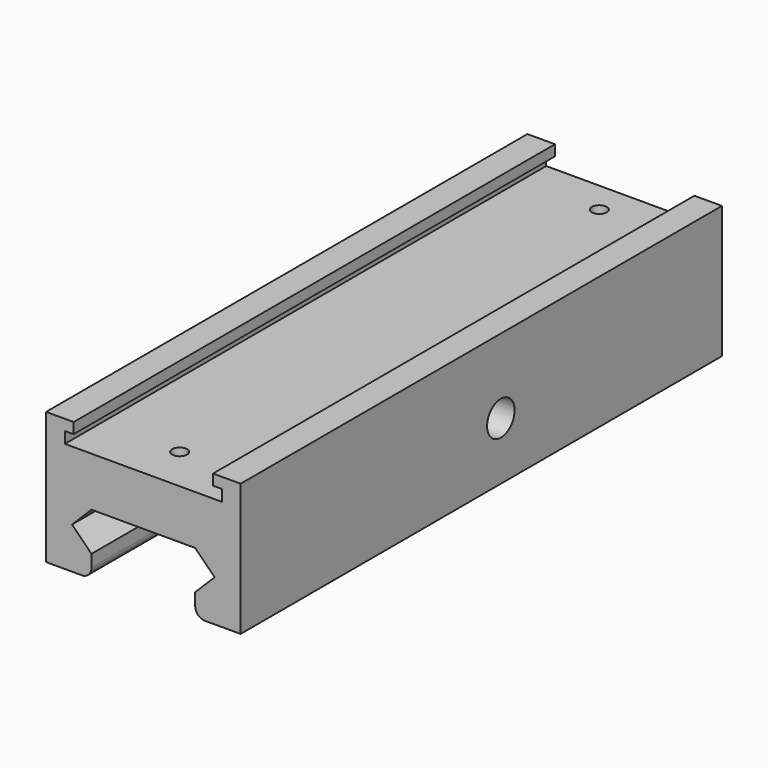
from build123d import *

# Parameters (mm, degrees)
F1_DEPTH = 92.8
F3_DEPTH = 92.8
F4_R     = 1.15
F5_DEPTH = 6.6
F6_R     = 2.65
F7_DEPTH = 30
F9_DEPTH = 2.7


with BuildPart() as f1:
    # F0 (on Front) → F1 (new body)
    with BuildSketch(Plane.XZ):
        with BuildLine():
            Line((-15, 20.4), (-15, 0))
            Line((-15, 0), (-9.5, 0))
            ThreePointArc((-9.5, 0), (-8.43934, 0.43934), (-8, 1.5))
            Line((-8, 1.5), (-8, 3.4))
            Line((-8, 3.4), (-9.5, 4.9))
            Line((-9.5, 4.9), (-11, 6.4))
            Line((-11, 6.4), (-9.5, 7.9))
            Line((-9.5, 7.9), (-8, 9.4))
            Line((-8, 9.4), (0, 9.4))
            Line((0, 9.4), (8, 9.4))
            Line((8, 9.4), (11, 6.4))
            Line((11, 6.4), (8, 3.4))
            Line((8, 3.4), (8, 1.5))
            ThreePointArc((8, 1.5), (8.43934, 0.43934), (9.5, 0))
            Line((9.5, 0), (15, 0))
            Line((15, 0), (15, 20.4))
            Line((15, 20.4), (0, 20.4))
            Line((0, 20.4), (-15, 20.4))
        make_face()
    extrude(amount=F1_DEPTH)

    # F2 (on face) → F3 (cut, through all)
    with BuildSketch(Plane(origin=(0, 0, 0), x_dir=(-1, 0, 0), z_dir=(0, 1, 0))):
        Polygon((0, 20.4), (-10.75, 20.4), (-10.75, 18.75), (-12.1, 18.75), (-12.1, 17), (0, 17), (12.1, 17), (12.1, 18.75), (10.75, 18.75), (10.75, 20.4), align=None)
    extrude(amount=-F3_DEPTH, mode=Mode.SUBTRACT)

    # F4 (on face) → F5 (cut)
    with BuildSketch(Plane.XY.offset(17)):
        with Locations((0, -4.88)):
            Circle(F4_R)
        with Locations((0, -85.8)):
            Circle(F4_R)
    extrude(amount=-F5_DEPTH, mode=Mode.SUBTRACT)

    # F6 (on face) → F7 (cut)
    with BuildSketch(Plane.YZ.offset(15)):
        with Locations((-42.625, 8.9)):
            Circle(F6_R)
    extrude(amount=-F7_DEPTH, mode=Mode.SUBTRACT)

    # F8 (on face) → F9 (cut)
    with BuildSketch(Plane(origin=(-15, 0, 0), x_dir=(0, -1, 0), z_dir=(-1, 0, 0))):
        Polygon((46.628252, 11.317431), (42.533069, 13.575634), (38.529817, 11.158202), (38.621748, 6.482569), (42.716931, 4.224366), (46.720183, 6.641798), align=None)
    extrude(amount=-F9_DEPTH, mode=Mode.SUBTRACT)


solid = f1.part
